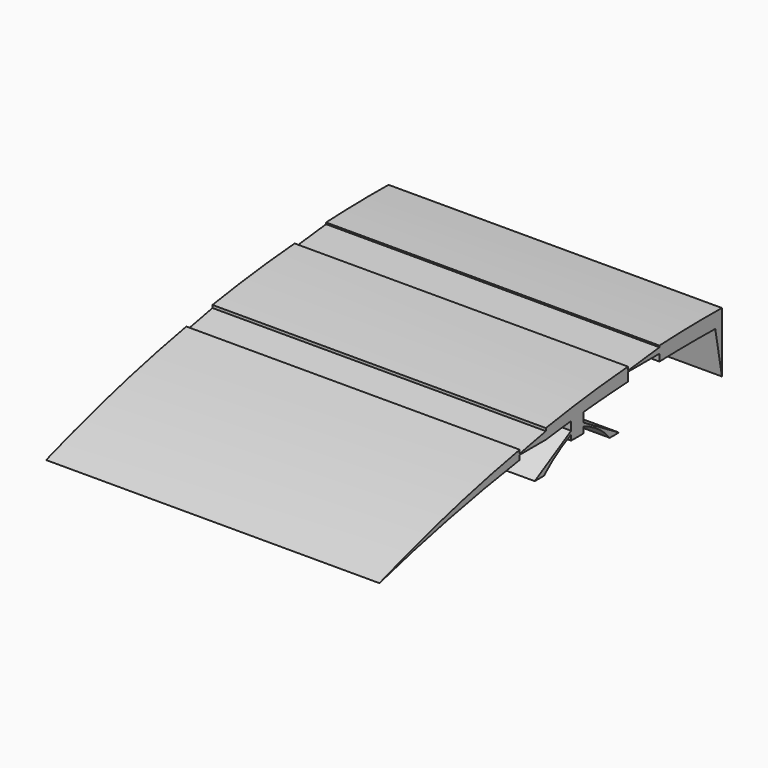
from build123d import *

# Parameters (mm, degrees)
F1_DEPTH = 147.32


with BuildPart() as f1:
    # F0 (on Right) → F1 (new body)
    with BuildSketch(Plane.YZ):
        with BuildLine():
            Line((102.692073, -25.941667), (102.692073, 0.730607))
            ThreePointArc((102.692073, 0.730607), (85.426896, 0.696723), (68.170931, 0.131777))
            Line((68.170931, 0.131777), (68.170931, -0.551626))
            Line((68.170931, -0.551626), (50.78753, -2.557374))
            Line((50.78753, -2.557374), (50.78753, -0.975808))
            ThreePointArc((50.78753, -0.975808), (28.046461, -3.246291), (5.416687, -6.440765))
            Line((5.416687, -6.440765), (5.416687, -7.657716))
            Line((5.416687, -7.657716), (-9.032263, -10.550621))
            Line((-9.032263, -10.550621), (-9.032263, -8.975624))
            ThreePointArc((-9.032263, -8.975624), (-48.129581, -17.819507), (-86.4959, -29.431574))
            ThreePointArc((-86.4959, -29.431574), (-48.013724, -20.033796), (-9.032263, -12.988095))
            Line((-9.032263, -12.988095), (-9.032263, -10.991919))
            Line((-9.032263, -10.991919), (5.416687, -10.991919))
            ThreePointArc((5.416687, -10.991919), (12.409825, -10.143639), (19.411712, -9.370892))
            Line((19.411712, -9.370892), (19.411712, -13.201555))
            Line((19.411712, -13.201555), (-0.720213, -24.61093))
            Line((-0.720213, -24.61093), (4.359787, -24.61093))
            ThreePointArc((4.359787, -24.61093), (11.474848, -18.999707), (19.411712, -14.62751))
            Line((19.411712, -14.62751), (19.411712, -17.032219))
            Line((19.411712, -17.032219), (26.342849, -17.032219))
            Line((26.342849, -17.032219), (26.342849, -14.36935))
            ThreePointArc((26.342849, -14.36935), (34.233928, -18.511276), (40.731535, -24.61093))
            Line((40.731535, -24.61093), (45.811535, -24.61093))
            Line((45.811535, -24.61093), (26.342849, -12.856694))
            Line((26.342849, -12.856694), (26.342849, -8.681169))
            ThreePointArc((26.342849, -8.681169), (38.556557, -7.647182), (50.78753, -6.842767))
            Line((50.78753, -6.842767), (50.78753, -3.024233))
            Line((50.78753, -3.024233), (68.170931, -3.024233))
            Line((68.170931, -3.024233), (68.170931, -6.095655))
            ThreePointArc((68.170931, -6.095655), (83.595843, -5.821047), (99.022937, -5.911126))
            Line((99.022937, -5.911126), (102.692073, -25.941667))
        make_face()
    extrude(amount=F1_DEPTH)


solid = f1.part
